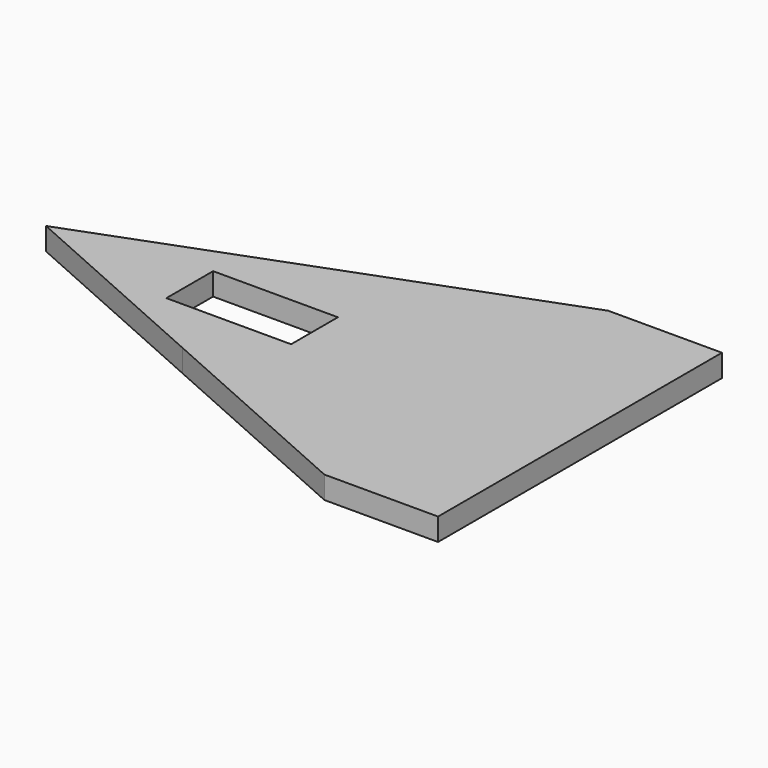
from build123d import *

# Parameters (mm, degrees)
F1_DEPTH = 6.35


with BuildPart() as f1:
    # F0 (on Top) → F1 (new body)
    with BuildSketch(Plane.XY):
        Polygon((112.340015, -54.551486), (112.340015, 46.004297), (80.124243, 46.004297), (17.682701, 22.555145), (17.682701, 6.186691), (35.365403, 6.186691), (35.365403, -10.377237), (17.682701, -10.377237), (17.682701, -26.745691), (80.124243, -54.551486), align=None)
        Polygon((17.682701, 22.555145), (-42.378237, 0), (17.682701, -26.745691), (17.682701, -10.377237), (0, -10.377237), (0, 6.186691), (17.682701, 6.186691), align=None)
    extrude(amount=F1_DEPTH)


solid = f1.part
